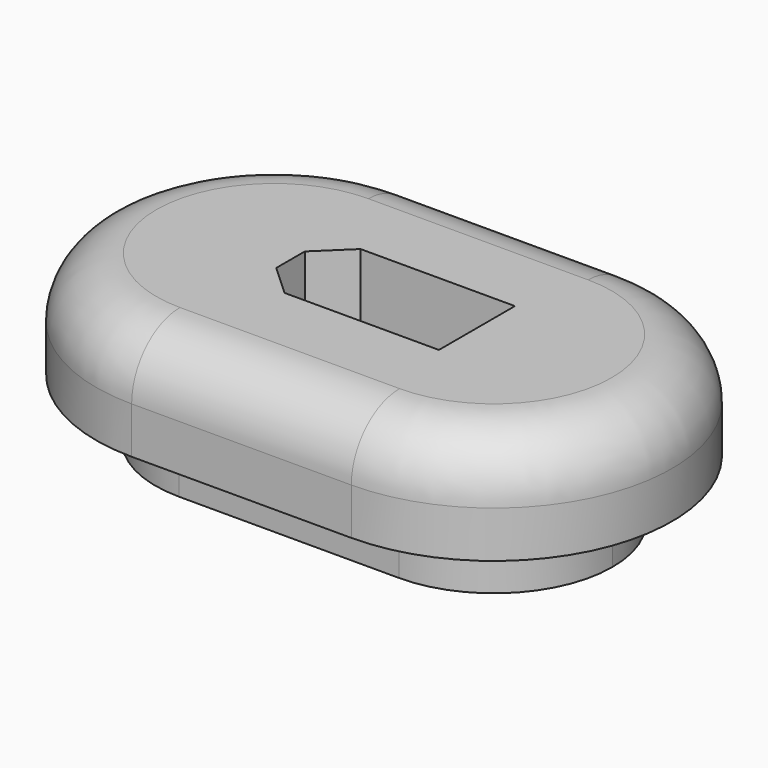
from build123d import *

# Parameters (mm, degrees)
F1_DEPTH = 14
F4_DEPTH = 9
F5_DEPTH = 25.4
F6_R     = 5.08


with BuildPart() as f1:
    # F0 (on Top) → F1 (new body)
    with BuildSketch(Plane.XY):
        with BuildLine():
            Line((-22.189739, 10), (-31.439739, 10))
            ThreePointArc((-31.439739, 10), (-38.510807, 7.071068), (-41.439739, 0))
            Line((-41.439739, 0), (-30.014739, 0))
            Line((-30.014739, 0), (-30.014739, 1.443336))
            Line((-30.014739, 1.443336), (-27.364739, 4))
            Line((-27.364739, 4), (-22.189739, 4))
            Line((-22.189739, 4), (-22.189739, 10))
        make_face()
        with BuildLine():
            Line((-30.014739, 0), (-41.439739, 0))
            ThreePointArc((-41.439739, 0), (-38.510807, -7.071068), (-31.439739, -10))
            Line((-31.439739, -10), (-22.189739, -10))
            Line((-22.189739, -10), (-22.189739, -4))
            Line((-22.189739, -4), (-27.364739, -4))
            Line((-27.364739, -4), (-30.014739, -1.556664))
            Line((-30.014739, -1.556664), (-30.014739, 0))
        make_face()
        with BuildLine():
            Line((-12.939739, 10), (-22.189739, 10))
            Line((-22.189739, 10), (-22.189739, 4))
            Line((-22.189739, 4), (-14.364739, 4))
            Line((-14.364739, 4), (-14.364739, 0))
            Line((-14.364739, 0), (-2.939739, 0))
            ThreePointArc((-2.939739, 0), (-5.868671, 7.071068), (-12.939739, 10))
        make_face()
        with BuildLine():
            Line((-22.189739, -4), (-22.189739, -10))
            Line((-22.189739, -10), (-12.939739, -10))
            ThreePointArc((-12.939739, -10), (-5.868671, -7.071068), (-2.939739, 0))
            Line((-2.939739, 0), (-14.364739, 0))
            Line((-14.364739, 0), (-14.364739, -4))
            Line((-14.364739, -4), (-22.189739, -4))
        make_face()
    extrude(amount=F1_DEPTH)

    # F3 (on offset) → F4 (join)
    with BuildSketch(Plane.XY.offset(14)):
        with BuildLine():
            Line((-12.939739, 15), (-31.439739, 15))
            ThreePointArc((-31.439739, 15), (-46.439739, 0), (-31.439739, -15))
            Line((-31.439739, -15), (-12.939739, -15))
            ThreePointArc((-12.939739, -15), (2.060261, 0), (-12.939739, 15))
        make_face()
    extrude(amount=-F4_DEPTH)

    # F4_face (on face) → F5 (cut)
    with BuildSketch(Plane(origin=(-21.801895, -0.002955, 5), x_dir=(1, 0, 0), z_dir=(0, 0, -1))):
        Polygon((-8.212843, -1.446291), (-5.562843, -4.002955), (7.437157, -4.002955), (7.437157, 3.997045), (-5.562843, 3.997045), (-8.212843, 1.553709), align=None)
    extrude(amount=-F5_DEPTH, mode=Mode.SUBTRACT)

    # F6
    f6_edges = [f1.edges().sort_by_distance(p)[0] for p in [
        (-22.189739, -15, 14),
    ]]
    fillet(f6_edges, radius=F6_R)


solid = f1.part
